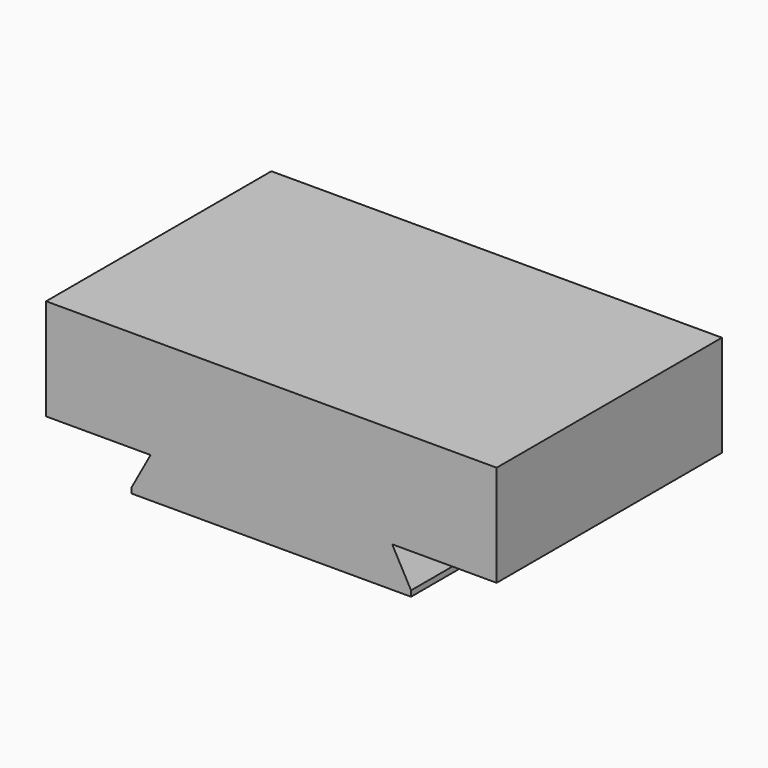
from build123d import *

# Parameters (mm, degrees)
F1_DEPTH = 25
F2_W     = 7.4
F2_H     = 7.4
F3_DEPTH = 23


with BuildPart() as f1:
    # F0 (on Front) → F1 (new body)
    with BuildSketch(Plane.XZ):
        Polygon((10.088344, -11.686348), (10.088344, -11.186348), (8.413416, -8.127029), (17.688344, -8.127029), (17.688344, 0.872971), (-22.311656, 0.872971), (-22.311656, -8.127029), (-13.036728, -8.127029), (-14.711656, -11.186348), (-14.711656, -11.686348), align=None)
    extrude(amount=F1_DEPTH)

    # F2 (on face) → F3 (cut)
    with BuildSketch(Plane(origin=(0, 0, 0), x_dir=(-1, 0, 0), z_dir=(0, 1, 0))):
        Polygon((-7.263654, -7.327029), (-7.263654, -10.886348), (10.157422, -10.886348), (10.157422, -7.327029), (13.311656, -7.327029), (13.311656, 0.072971), (-16.888344, 0.072971), (-16.888344, -7.327029), align=None)
        with Locations((17.811656, -3.627029)):
            Rectangle(F2_W, F2_H)
    extrude(amount=-F3_DEPTH, mode=Mode.SUBTRACT)


solid = f1.part
